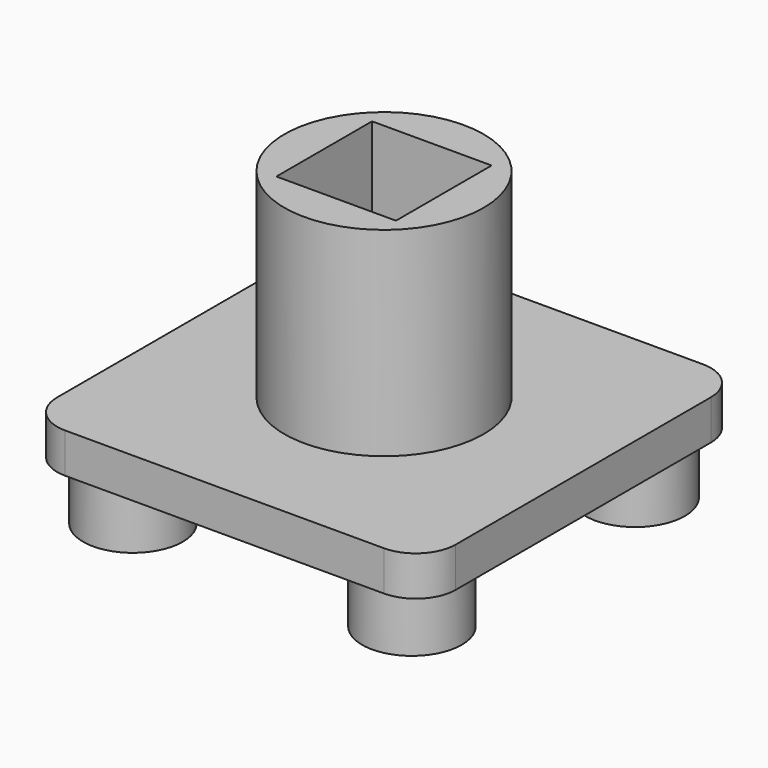
from build123d import *

# Parameters (mm, degrees)
F0_W     = 100
F0_H     = 10
F1_DEPTH = 50
F2_R     = 12.5
F3_DEPTH = 15
F4_R     = 10
F5_R     = 25
F5_W     = 30
F5_H     = 30
F6_DEPTH = 50


with BuildPart() as f1:
    # F0 (on Front) → F1 (new body, symmetric)
    with BuildSketch(Plane.XZ):
        Rectangle(F0_W, F0_H)
    extrude(amount=F1_DEPTH, both=True)

    # F2 (on face) → F3 (join)
    with BuildSketch(Plane(origin=(0, 0, -5), x_dir=(1, 0, 0), z_dir=(0, 0, -1))):
        with Locations((35, 35)):
            Circle(F2_R)
        with Locations((35, -35)):
            Circle(F2_R)
        with Locations((-35, -35)):
            Circle(F2_R)
        with Locations((-35, 35)):
            Circle(F2_R)
    extrude(amount=F3_DEPTH)

    # F4
    f4_edges = [f1.edges().sort_by_distance(p)[0] for p in [
        (-50, -50, 0),
        (50, -50, 0),
        (50, 50, 0),
        (-50, 50, 0),
    ]]
    fillet(f4_edges, radius=F4_R)

    # F5 (on face) → F6 (join)
    with BuildSketch(Plane.XY.offset(5)):
        Circle(F5_R)
        Rectangle(F5_W, F5_H, mode=Mode.SUBTRACT)
    extrude(amount=F6_DEPTH)


solid = f1.part
